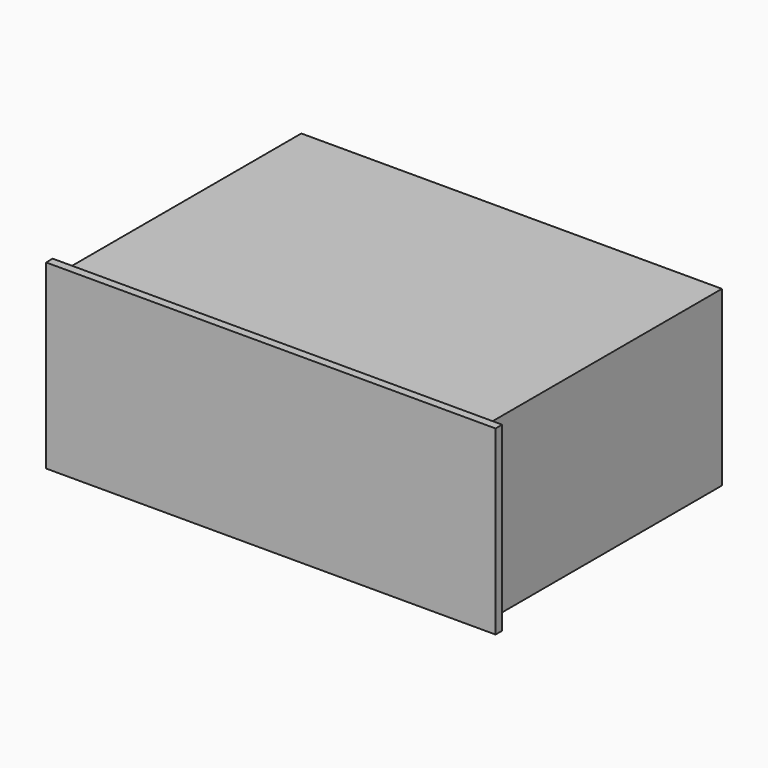
from build123d import *

# Parameters (mm, degrees)
F0_W     = 647.7
F0_H     = 450.85
F0_W_2   = 622.3
F0_H_2   = 425.45
F1_DEPTH = 266.7
F2_W     = 692.15
F2_H     = 279.4
F3_DEPTH = 12.7
F4_W     = 622.3
F4_H     = 425.45
F5_DEPTH = 12.7


with BuildPart() as f1:
    # F0 (on Top) → F1 (new body)
    with BuildSketch(Plane.XY):
        with Locations((0.116292, 27.810883)):
            Rectangle(F0_W, F0_H)
        with Locations((0.116292, 27.810883)):
            Rectangle(F0_W_2, F0_H_2, mode=Mode.SUBTRACT)
    extrude(amount=F1_DEPTH)

    # F2 (on face) → F3 (join)
    with BuildSketch(Plane.XZ.offset(197.614117)):
        with Locations((0.116292, 133.35)):
            Rectangle(F2_W, F2_H)
    extrude(amount=F3_DEPTH)

    # F4 (on face) → F5 (join)
    with BuildSketch(Plane.XY.offset(266.7)):
        with Locations((0.116292, 27.810883)):
            Rectangle(F4_W, F4_H)
    extrude(amount=-F5_DEPTH)


solid = f1.part
